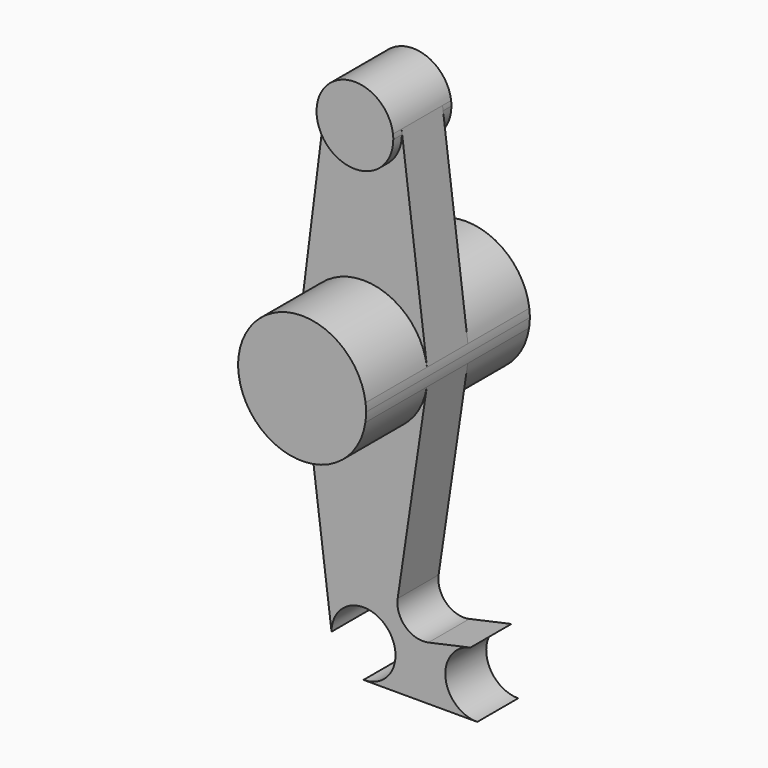
from build123d import *

# Parameters (mm, degrees)
F1_DEPTH = 9.017
F2_DEPTH = 25.4
F3_DEPTH = 6.35


with BuildPart() as f1:
    # F0 (on Front) → F1 (new body, symmetric)
    with BuildSketch(Plane.XZ):
        with BuildLine():
            ThreePointArc((9.450293, 115.490625), (0, 123.825), (-9.450293, 115.490625))
            ThreePointArc((-9.450293, 115.490625), (-0.596483, 104.793695), (9.525, 114.3))
            ThreePointArc((9.525, 114.3), (9.506305, 114.896483), (9.450293, 115.490625))
        make_face()
    extrude(amount=F1_DEPTH, both=True)


with BuildPart() as f2:
    # F0 (on Front) → F2 (new body, symmetric)
    with BuildSketch(Plane.XZ):
        with BuildLine():
            ThreePointArc((-15.750488, 65.484375), (-15.874998, 63.49203), (-15.748488, 61.499811))
            ThreePointArc((-15.748488, 61.499811), (-0.169423, 47.625904), (15.70221, 61.164141))
            ThreePointArc((15.70221, 61.164141), (15.831743, 62.328879), (15.875, 63.5))
            ThreePointArc((15.875, 63.5), (15.843841, 64.494139), (15.750488, 65.484375))
            ThreePointArc((15.750488, 65.484375), (0, 79.375), (-15.750488, 65.484375))
        make_face()
    extrude(amount=F2_DEPTH, both=True)


with BuildPart() as f3:
    # F0 (on Front) → F3 (new body, symmetric)
    with BuildSketch(Plane.XZ):
        with BuildLine():
            Line((-9.450293, 115.490625), (-15.750488, 65.484375))
            ThreePointArc((-15.750488, 65.484375), (0, 79.375), (15.750488, 65.484375))
            Line((15.750488, 65.484375), (9.450293, 115.490625))
            ThreePointArc((9.450293, 115.490625), (9.506305, 114.896483), (9.525, 114.3))
            ThreePointArc((9.525, 114.3), (-0.596483, 104.793695), (-9.450293, 115.490625))
        make_face()
        with BuildLine():
            ThreePointArc((-7.9375, 0), (0, 7.9375), (7.9375, 0))
            ThreePointArc((7.9375, 0), (5.61266, -5.61266), (0, -7.9375))
            Line((0, -7.9375), (28.240531, -7.9375))
            ThreePointArc((28.240531, -7.9375), (20.349126, -0.854185), (26.542082, 7.753656))
            Line((26.542082, 7.753656), (16.118594, 5.470376))
            ThreePointArc((16.118594, 5.470376), (10.424863, 7.033201), (8.478951, 12.607644))
            Line((8.478951, 12.607644), (15.70221, 61.164141))
            ThreePointArc((15.70221, 61.164141), (-0.169423, 47.625904), (-15.748488, 61.499811))
            Line((-15.748488, 61.499811), (-7.9375, 0))
        make_face()
    extrude(amount=F3_DEPTH, both=True)


solid = Compound([f1.part, f2.part, f3.part])
